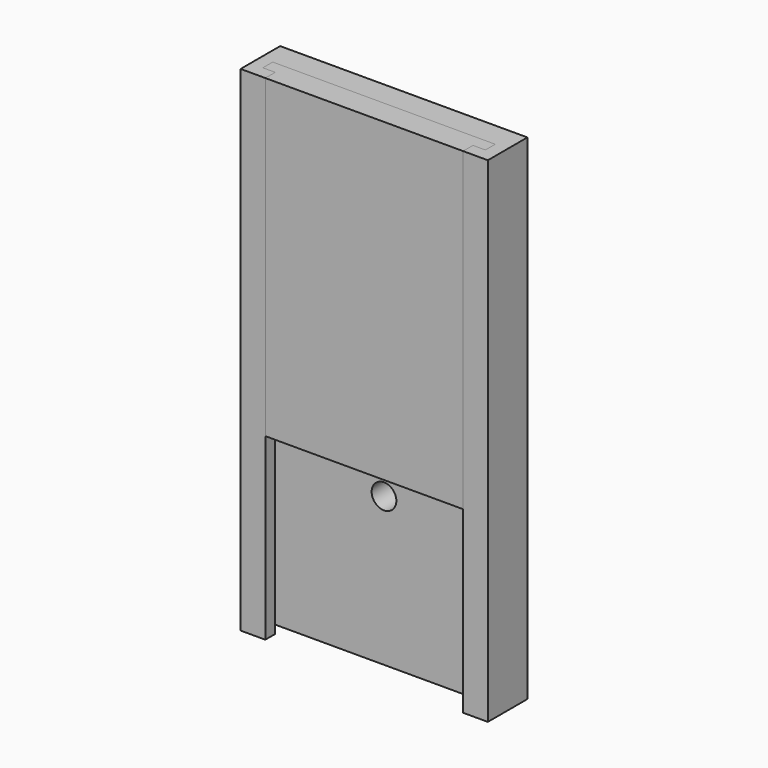
from build123d import *

# Parameters (mm, degrees)
F1_DEPTH      = 280
F1_DEPTH_BACK = 120
F2_R          = 10
F3_DEPTH      = 20
F5_DEPTH      = 255


with BuildPart() as f1:
    # F0 (on Top) → F1 (new body, two sides)
    with BuildSketch(Plane.XY) as f1_sk:
        Polygon((80, 10), (80, 0), (100, 0), (100, 40), (0, 40), (0, 20), (90, 20), (90, 10), align=None)
        Polygon((0, 20), (0, 40), (-100, 40), (-100, 0), (-80, 0), (-80, 10), (-90, 10), (-90, 20), align=None)
    extrude(amount=F1_DEPTH)
    extrude(f1_sk.sketch, amount=-F1_DEPTH_BACK)

    # F2 (on face) → F3 (cut)
    with BuildSketch(Plane.XZ.offset(-20)):
        Circle(F2_R)
    extrude(amount=-F3_DEPTH, mode=Mode.SUBTRACT)


with BuildPart() as f5:
    # F4 (on face) → F5 (new body)
    with BuildSketch(Plane.XY.offset(280)):
        Polygon((90, 20), (-90, 20), (-90, 10), (-80, 10), (-80, 0), (80, 0), (80, 10), (90, 10), align=None)
    extrude(amount=-F5_DEPTH)


solid = Compound([f1.part, f5.part])
